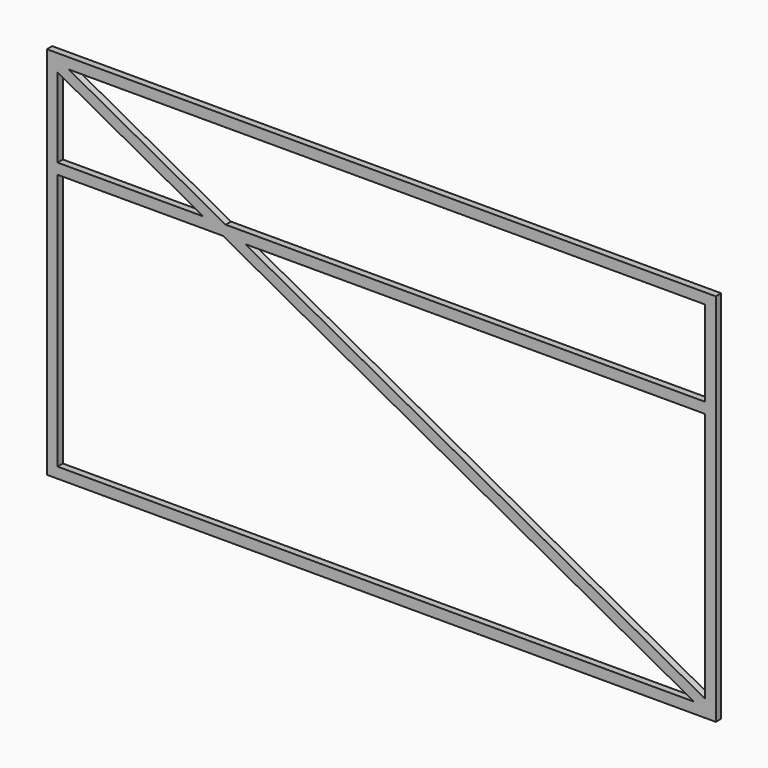
from build123d import *

# Parameters (mm, degrees)
F0_W     = 2500
F0_H     = 1400
F1_DEPTH = 25


with BuildPart() as f1:
    # F0 (on Front) → F1 (new body)
    with BuildSketch(Plane.XZ):
        with Locations((1250, 700)):
            Rectangle(F0_W, F0_H)
        Polygon((40, 1337.2182471161), (40, 1360), (81.7665469538, 1360), (2460, 1360), (2460, 1040), (2460, 1000), (2460, 62.7817528839), (2460, 40), (2418.2334530462, 40), (40, 40), (40, 1000), (40, 1040), align=None, mode=Mode.SUBTRACT)
        Polygon((2460, 62.7817528839), (741.7665469538, 1000), (658.2334530462, 1000), (2418.2334530462, 40), (2460, 40), align=None)
        Polygon((2460, 1040), (668.4332136205, 1040), (741.7665469538, 1000), (2460, 1000), align=None)
        Polygon((81.7665469538, 1360), (40, 1360), (40, 1337.2182471161), (584.9001197129, 1040), (668.4332136205, 1040), align=None)
        Polygon((584.9001197129, 1040), (40, 1040), (40, 1000), (658.2334530462, 1000), align=None)
        Polygon((741.7665469538, 1000), (668.4332136205, 1040), (584.9001197129, 1040), (658.2334530462, 1000), align=None)
    extrude(amount=F1_DEPTH)


solid = f1.part
